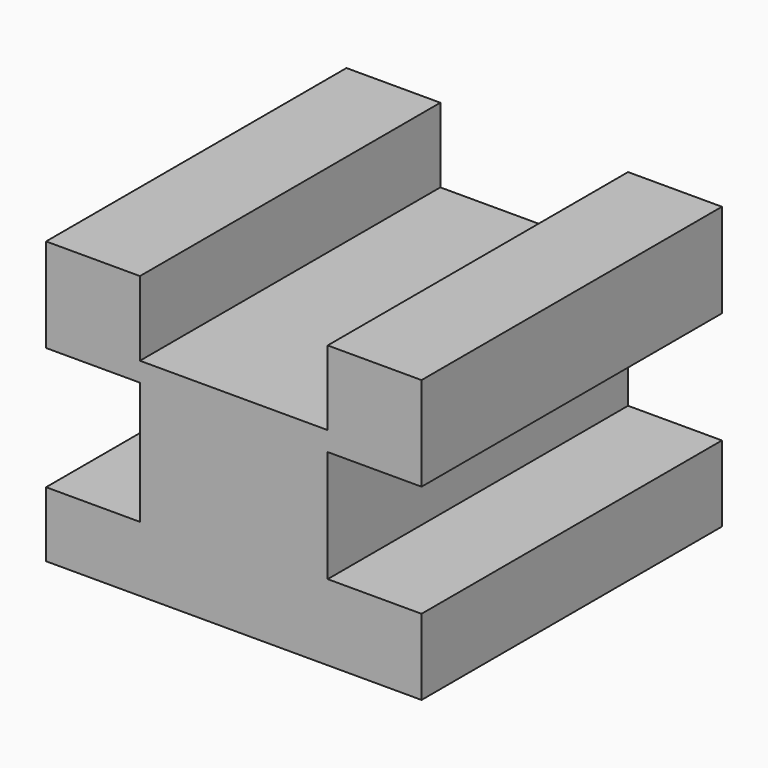
from build123d import *

# Parameters (mm, degrees)
F0_W     = 152.4
F0_H     = 114.3
F1_DEPTH = 152.4
F2_W     = 76.2
F2_H     = 30.254747
F3_DEPTH = 152.401
F2_W_2   = 38.1
F2_H_2   = 49.729511
F4_DEPTH = 152.401
F2_H_3   = 45.411082
F5_DEPTH = 152.401


with BuildPart() as f1:
    # F0 (on Front) → F1 (new body)
    with BuildSketch(Plane.XZ):
        Rectangle(F0_W, F0_H)
    extrude(amount=F1_DEPTH)

    # F2 (on face) → F3 (cut, through all)
    with BuildSketch(Plane.XZ.offset(152.4)):
        with Locations((0, 42.022627)):
            Rectangle(F2_W, F2_H)
    extrude(amount=-F3_DEPTH, mode=Mode.SUBTRACT)

    # F2 (on face) → F4 (cut, through all)
    with BuildSketch(Plane.XZ.offset(152.4)):
        with Locations((-57.15, -5.814755)):
            Rectangle(F2_W_2, F2_H_2)
    extrude(amount=-F4_DEPTH, mode=Mode.SUBTRACT)

    # F2 (on face) → F5 (cut, through all)
    with BuildSketch(Plane.XZ.offset(152.4)):
        with Locations((57.15, -3.655541)):
            Rectangle(F2_W_2, F2_H_3)
    extrude(amount=-F5_DEPTH, mode=Mode.SUBTRACT)


solid = f1.part
